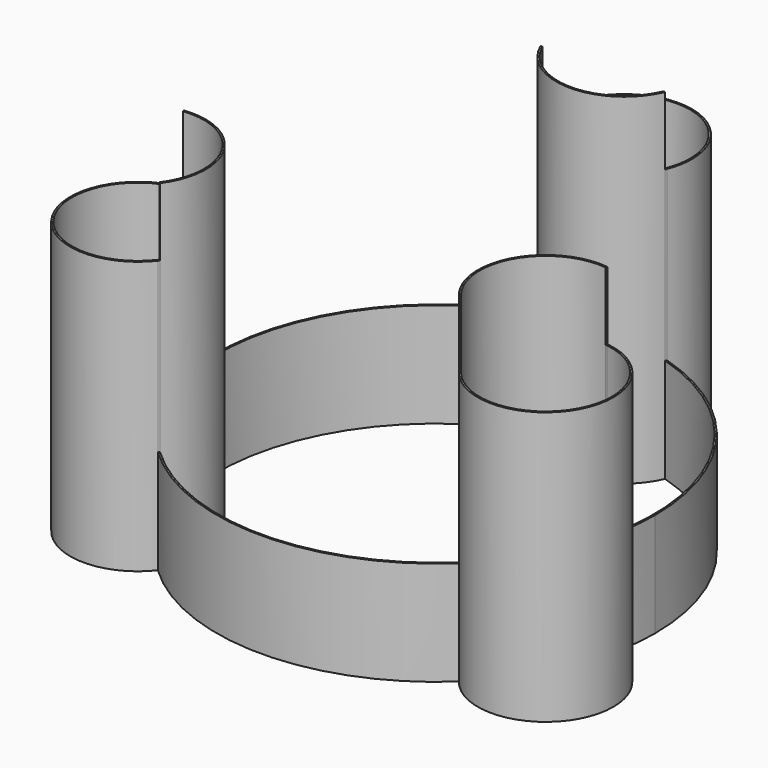
from build123d import *

# Parameters (mm, degrees)
F5_DEPTH = 38.196601125
F6_DEPTH = 100
F8_DEPTH = 25


with BuildPart() as f5:
    # F4 (on Top) → F5 (new body)
    with BuildSketch(Plane.XY):
        with BuildLine():
            ThreePointArc((55.2405756929, -58.5553481513), (55.4659681323, -58.3418921457), (55.6905357594, -58.1275685611))
            ThreePointArc((55.6905357594, -58.1275685611), (55.5005343284, -57.8813176256), (55.3137058467, -57.6326508095))
            ThreePointArc((55.3137058467, -57.6326508095), (55.0886829293, -57.8477787555), (54.8628233356, -58.0620281206))
            ThreePointArc((54.8628233356, -58.0620281206), (55.0501592129, -58.3098675984), (55.2405756929, -58.5553481513))
        make_face()
        with BuildLine():
            ThreePointArc((-55.2405756929, -58.5553481513), (0, -80.5), (55.2405756929, -58.5553481513))
            ThreePointArc((55.2405756929, -58.5553481513), (55.0501592129, -58.3098675984), (54.8628233356, -58.0620281206))
            ThreePointArc((54.8628233356, -58.0620281206), (0, -79.8819660113), (-54.8628233356, -58.0620281206))
            ThreePointArc((-54.8628233356, -58.0620281206), (-55.0501592129, -58.3098675984), (-55.2405756929, -58.5553481513))
        make_face()
        with BuildLine():
            ThreePointArc((-55.6905357594, -58.1275685611), (-55.4659681323, -58.3418921457), (-55.2405756929, -58.5553481513))
            ThreePointArc((-55.2405756929, -58.5553481513), (-55.0501592129, -58.3098675984), (-54.8628233356, -58.0620281206))
            ThreePointArc((-54.8628233356, -58.0620281206), (-55.0886829293, -57.8477787555), (-55.3137058467, -57.6326508095))
            ThreePointArc((-55.3137058467, -57.6326508095), (-55.5005343284, -57.8813176256), (-55.6905357594, -58.1275685611))
        make_face()
        with BuildLine():
            ThreePointArc((-77.7146030154, -18.4815846716), (-69.17981187, 39.9409830056), (-22.8517796799, 76.5436127922))
            ThreePointArc((-22.8517796799, 76.5436127922), (-22.9727470251, 76.8297701599), (-23.09013118, 77.1174159454))
            ThreePointArc((-23.09013118, 77.1174159454), (-69.7150450046, 40.25), (-78.3307068729, -18.5620677941))
            ThreePointArc((-78.3307068729, -18.5620677941), (-78.022906238, -18.5199025615), (-77.7146030154, -18.4815846716))
        make_face()
        with BuildLine():
            ThreePointArc((-77.5681926118, -19.0867490359), (-77.6419874194, -18.7843095), (-77.7146030154, -18.4815846716))
            ThreePointArc((-77.7146030154, -18.4815846716), (-78.022906238, -18.5199025615), (-78.3307068729, -18.5620677941))
            ThreePointArc((-78.3307068729, -18.5620677941), (-78.2585447692, -18.8639913752), (-78.1852189139, -19.1656344374))
            ThreePointArc((-78.1852189139, -19.1656344374), (-77.8769586325, -19.1242138392), (-77.5681926118, -19.0867490359))
        make_face()
        with BuildLine():
            ThreePointArc((-22.2544867651, 76.7193998454), (-22.3764243041, 77.0055314648), (-22.4946831545, 77.2932029986))
            ThreePointArc((-22.4946831545, 77.2932029986), (-22.7925766369, 77.205883521), (-23.09013118, 77.1174159454))
            ThreePointArc((-23.09013118, 77.1174159454), (-22.9727470251, 76.8297701599), (-22.8517796799, 76.5436127922))
            ThreePointArc((-22.8517796799, 76.5436127922), (-22.5533044901, 76.6320882555), (-22.2544867651, 76.7193998454))
        make_face()
        with BuildLine():
            ThreePointArc((22.8517796799, 76.5436127922), (22.9727470251, 76.8297701599), (23.09013118, 77.1174159454))
            ThreePointArc((23.09013118, 77.1174159454), (22.7925766369, 77.205883521), (22.4946831545, 77.2932029986))
            ThreePointArc((22.4946831545, 77.2932029986), (22.3764243041, 77.0055314648), (22.2544867651, 76.7193998454))
            ThreePointArc((22.2544867651, 76.7193998454), (22.5533044901, 76.6320882555), (22.8517796799, 76.5436127922))
        make_face()
        with BuildLine():
            ThreePointArc((78.3307068729, -18.5620677941), (79.9558375082, -9.3441986476), (80.5, 0))
            ThreePointArc((80.5, 0), (64.5716871391, 48.0702321609), (23.09013118, 77.1174159454))
            ThreePointArc((23.09013118, 77.1174159454), (22.9727470251, 76.8297701599), (22.8517796799, 76.5436127922))
            ThreePointArc((22.8517796799, 76.5436127922), (64.0569027565, 47.7267399166), (79.8819660113, 0))
            ThreePointArc((79.8819660113, 0), (79.3382750332, -9.3041178294), (77.7146030154, -18.4815846716))
            ThreePointArc((77.7146030154, -18.4815846716), (78.022906238, -18.5199025615), (78.3307068729, -18.5620677941))
        make_face()
        with BuildLine():
            ThreePointArc((78.1852189139, -19.1656344374), (78.2585447692, -18.8639913752), (78.3307068729, -18.5620677941))
            ThreePointArc((78.3307068729, -18.5620677941), (78.022906238, -18.5199025615), (77.7146030154, -18.4815846716))
            ThreePointArc((77.7146030154, -18.4815846716), (77.6419874194, -18.7843095), (77.5681926118, -19.0867490359))
            ThreePointArc((77.5681926118, -19.0867490359), (77.8769586325, -19.1242138392), (78.1852189139, -19.1656344374))
        make_face()
        with BuildLine():
            ThreePointArc((99.6765570463, -43.1861979292), (93.5972454648, -26.8920800907), (78.3307068729, -18.5620677941))
            ThreePointArc((78.3307068729, -18.5620677941), (78.2585447692, -18.8639913752), (78.1852189139, -19.1656344374))
            ThreePointArc((78.1852189139, -19.1656344374), (93.1111215206, -27.2748631617), (99.0585230576, -43.1861979292))
            ThreePointArc((99.0585230576, -43.1861979292), (82.7023213332, -66.1210343067), (55.6905357594, -58.1275685611))
            ThreePointArc((55.6905357594, -58.1275685611), (55.4659681323, -58.3418921457), (55.2405756929, -58.5553481513))
            ThreePointArc((55.2405756929, -58.5553481513), (82.9319254828, -66.6955961424), (99.6765570463, -43.1861979292))
        make_face()
        with BuildLine():
            ThreePointArc((77.5681926118, -19.0867490359), (77.6419874194, -18.7843095), (77.7146030154, -18.4815846716))
            ThreePointArc((77.7146030154, -18.4815846716), (53.2575553291, -30.7482639056), (54.8628233356, -58.0620281206))
            ThreePointArc((54.8628233356, -58.0620281206), (55.0886829293, -57.8477787555), (55.3137058467, -57.6326508095))
            ThreePointArc((55.3137058467, -57.6326508095), (53.7927884638, -31.0572809), (77.5681926118, -19.0867490359))
        make_face()
        with BuildLine():
            ThreePointArc((-22.8517796799, 76.5436127922), (0, 61.4965278113), (22.8517796799, 76.5436127922))
            ThreePointArc((22.8517796799, 76.5436127922), (22.5533044901, 76.6320882555), (22.2544867651, 76.7193998454))
            ThreePointArc((22.2544867651, 76.7193998454), (0, 62.1145618), (-22.2544867651, 76.7193998454))
            ThreePointArc((-22.2544867651, 76.7193998454), (-22.5533044901, 76.6320882555), (-22.8517796799, 76.5436127922))
        make_face()
        with BuildLine():
            ThreePointArc((22.4946831545, 77.2932029986), (22.7925766369, 77.205883521), (23.09013118, 77.1174159454))
            ThreePointArc((23.09013118, 77.1174159454), (24.4253543222, 81.6595541109), (24.8758680472, 86.3723958584))
            ThreePointArc((24.8758680472, 86.3723958584), (-4.7128417476, 110.7977501806), (-23.09013118, 77.1174159454))
            ThreePointArc((-23.09013118, 77.1174159454), (-22.7925766369, 77.205883521), (-22.4946831545, 77.2932029986))
            ThreePointArc((-22.4946831545, 77.2932029986), (-4.6244038561, 110.1853629601), (24.2578340584, 86.3723958584))
            ThreePointArc((24.2578340584, 86.3723958584), (23.8129671016, 81.7479920024), (22.4946831545, 77.2932029986))
        make_face()
        with BuildLine():
            ThreePointArc((-78.1852189139, -19.1656344374), (-78.2585447692, -18.8639913752), (-78.3307068729, -18.5620677941))
            ThreePointArc((-78.3307068729, -18.5620677941), (-96.3438226692, -55.6241319528), (-55.2405756929, -58.5553481513))
            ThreePointArc((-55.2405756929, -58.5553481513), (-55.4659681323, -58.3418921457), (-55.6905357594, -58.1275685611))
            ThreePointArc((-55.6905357594, -58.1275685611), (-95.8085895345, -55.3151149584), (-78.1852189139, -19.1656344374))
        make_face()
        with BuildLine():
            ThreePointArc((-49.924820952, -43.1861979292), (-58.2730958512, -24.5946010146), (-77.7146030154, -18.4815846716))
            ThreePointArc((-77.7146030154, -18.4815846716), (-77.6419874194, -18.7843095), (-77.5681926118, -19.0867490359))
            ThreePointArc((-77.5681926118, -19.0867490359), (-58.6558930913, -25.0812793075), (-50.5428549407, -43.1861979292))
            ThreePointArc((-50.5428549407, -43.1861979292), (-51.7664262931, -50.7931194351), (-55.3137058467, -57.6326508095))
            ThreePointArc((-55.3137058467, -57.6326508095), (-55.0886829293, -57.8477787555), (-54.8628233356, -58.0620281206))
            ThreePointArc((-54.8628233356, -58.0620281206), (-51.1915750123, -51.0231965802), (-49.924820952, -43.1861979292))
        make_face()
    extrude(amount=F5_DEPTH)

    # F4 (on Top) → F6 (join)
    with BuildSketch(Plane.XY):
        with BuildLine():
            ThreePointArc((-49.924820952, -43.1861979292), (-58.2730958512, -24.5946010146), (-77.7146030154, -18.4815846716))
            ThreePointArc((-77.7146030154, -18.4815846716), (-77.6419874194, -18.7843095), (-77.5681926118, -19.0867490359))
            ThreePointArc((-77.5681926118, -19.0867490359), (-58.6558930913, -25.0812793075), (-50.5428549407, -43.1861979292))
            ThreePointArc((-50.5428549407, -43.1861979292), (-51.7664262931, -50.7931194351), (-55.3137058467, -57.6326508095))
            ThreePointArc((-55.3137058467, -57.6326508095), (-55.0886829293, -57.8477787555), (-54.8628233356, -58.0620281206))
            ThreePointArc((-54.8628233356, -58.0620281206), (-51.1915750123, -51.0231965802), (-49.924820952, -43.1861979292))
        make_face()
        with BuildLine():
            ThreePointArc((77.5681926118, -19.0867490359), (77.6419874194, -18.7843095), (77.7146030154, -18.4815846716))
            ThreePointArc((77.7146030154, -18.4815846716), (53.2575553291, -30.7482639056), (54.8628233356, -58.0620281206))
            ThreePointArc((54.8628233356, -58.0620281206), (55.0886829293, -57.8477787555), (55.3137058467, -57.6326508095))
            ThreePointArc((55.3137058467, -57.6326508095), (53.7927884638, -31.0572809), (77.5681926118, -19.0867490359))
        make_face()
        with BuildLine():
            ThreePointArc((55.2405756929, -58.5553481513), (55.4659681323, -58.3418921457), (55.6905357594, -58.1275685611))
            ThreePointArc((55.6905357594, -58.1275685611), (55.5005343284, -57.8813176256), (55.3137058467, -57.6326508095))
            ThreePointArc((55.3137058467, -57.6326508095), (55.0886829293, -57.8477787555), (54.8628233356, -58.0620281206))
            ThreePointArc((54.8628233356, -58.0620281206), (55.0501592129, -58.3098675984), (55.2405756929, -58.5553481513))
        make_face()
        with BuildLine():
            ThreePointArc((78.1852189139, -19.1656344374), (78.2585447692, -18.8639913752), (78.3307068729, -18.5620677941))
            ThreePointArc((78.3307068729, -18.5620677941), (78.022906238, -18.5199025615), (77.7146030154, -18.4815846716))
            ThreePointArc((77.7146030154, -18.4815846716), (77.6419874194, -18.7843095), (77.5681926118, -19.0867490359))
            ThreePointArc((77.5681926118, -19.0867490359), (77.8769586325, -19.1242138392), (78.1852189139, -19.1656344374))
        make_face()
        with BuildLine():
            ThreePointArc((-77.5681926118, -19.0867490359), (-77.6419874194, -18.7843095), (-77.7146030154, -18.4815846716))
            ThreePointArc((-77.7146030154, -18.4815846716), (-78.022906238, -18.5199025615), (-78.3307068729, -18.5620677941))
            ThreePointArc((-78.3307068729, -18.5620677941), (-78.2585447692, -18.8639913752), (-78.1852189139, -19.1656344374))
            ThreePointArc((-78.1852189139, -19.1656344374), (-77.8769586325, -19.1242138392), (-77.5681926118, -19.0867490359))
        make_face()
        with BuildLine():
            ThreePointArc((-55.6905357594, -58.1275685611), (-55.4659681323, -58.3418921457), (-55.2405756929, -58.5553481513))
            ThreePointArc((-55.2405756929, -58.5553481513), (-55.0501592129, -58.3098675984), (-54.8628233356, -58.0620281206))
            ThreePointArc((-54.8628233356, -58.0620281206), (-55.0886829293, -57.8477787555), (-55.3137058467, -57.6326508095))
            ThreePointArc((-55.3137058467, -57.6326508095), (-55.5005343284, -57.8813176256), (-55.6905357594, -58.1275685611))
        make_face()
        with BuildLine():
            ThreePointArc((-22.2544867651, 76.7193998454), (-22.3764243041, 77.0055314648), (-22.4946831545, 77.2932029986))
            ThreePointArc((-22.4946831545, 77.2932029986), (-22.7925766369, 77.205883521), (-23.09013118, 77.1174159454))
            ThreePointArc((-23.09013118, 77.1174159454), (-22.9727470251, 76.8297701599), (-22.8517796799, 76.5436127922))
            ThreePointArc((-22.8517796799, 76.5436127922), (-22.5533044901, 76.6320882555), (-22.2544867651, 76.7193998454))
        make_face()
        with BuildLine():
            ThreePointArc((-22.8517796799, 76.5436127922), (0, 61.4965278113), (22.8517796799, 76.5436127922))
            ThreePointArc((22.8517796799, 76.5436127922), (22.5533044901, 76.6320882555), (22.2544867651, 76.7193998454))
            ThreePointArc((22.2544867651, 76.7193998454), (0, 62.1145618), (-22.2544867651, 76.7193998454))
            ThreePointArc((-22.2544867651, 76.7193998454), (-22.5533044901, 76.6320882555), (-22.8517796799, 76.5436127922))
        make_face()
        with BuildLine():
            ThreePointArc((22.8517796799, 76.5436127922), (22.9727470251, 76.8297701599), (23.09013118, 77.1174159454))
            ThreePointArc((23.09013118, 77.1174159454), (22.7925766369, 77.205883521), (22.4946831545, 77.2932029986))
            ThreePointArc((22.4946831545, 77.2932029986), (22.3764243041, 77.0055314648), (22.2544867651, 76.7193998454))
            ThreePointArc((22.2544867651, 76.7193998454), (22.5533044901, 76.6320882555), (22.8517796799, 76.5436127922))
        make_face()
        with BuildLine():
            ThreePointArc((22.4946831545, 77.2932029986), (22.7925766369, 77.205883521), (23.09013118, 77.1174159454))
            ThreePointArc((23.09013118, 77.1174159454), (24.4253543222, 81.6595541109), (24.8758680472, 86.3723958584))
            ThreePointArc((24.8758680472, 86.3723958584), (-4.7128417476, 110.7977501806), (-23.09013118, 77.1174159454))
            ThreePointArc((-23.09013118, 77.1174159454), (-22.7925766369, 77.205883521), (-22.4946831545, 77.2932029986))
            ThreePointArc((-22.4946831545, 77.2932029986), (-4.6244038561, 110.1853629601), (24.2578340584, 86.3723958584))
            ThreePointArc((24.2578340584, 86.3723958584), (23.8129671016, 81.7479920024), (22.4946831545, 77.2932029986))
        make_face()
        with BuildLine():
            ThreePointArc((-78.1852189139, -19.1656344374), (-78.2585447692, -18.8639913752), (-78.3307068729, -18.5620677941))
            ThreePointArc((-78.3307068729, -18.5620677941), (-96.3438226692, -55.6241319528), (-55.2405756929, -58.5553481513))
            ThreePointArc((-55.2405756929, -58.5553481513), (-55.4659681323, -58.3418921457), (-55.6905357594, -58.1275685611))
            ThreePointArc((-55.6905357594, -58.1275685611), (-95.8085895345, -55.3151149584), (-78.1852189139, -19.1656344374))
        make_face()
        with BuildLine():
            ThreePointArc((99.6765570463, -43.1861979292), (93.5972454648, -26.8920800907), (78.3307068729, -18.5620677941))
            ThreePointArc((78.3307068729, -18.5620677941), (78.2585447692, -18.8639913752), (78.1852189139, -19.1656344374))
            ThreePointArc((78.1852189139, -19.1656344374), (93.1111215206, -27.2748631617), (99.0585230576, -43.1861979292))
            ThreePointArc((99.0585230576, -43.1861979292), (82.7023213332, -66.1210343067), (55.6905357594, -58.1275685611))
            ThreePointArc((55.6905357594, -58.1275685611), (55.4659681323, -58.3418921457), (55.2405756929, -58.5553481513))
            ThreePointArc((55.2405756929, -58.5553481513), (82.9319254828, -66.6955961424), (99.6765570463, -43.1861979292))
        make_face()
    extrude(amount=F6_DEPTH)

    # F7 (on face) → F8 (join)
    with BuildSketch(Plane.XY.offset(100)):
        with BuildLine():
            ThreePointArc((-49.924820952, -43.1861979292), (-58.2730958512, -24.5946010146), (-77.7146030154, -18.4815846716))
            ThreePointArc((-77.7146030154, -18.4815846716), (-77.6419874194, -18.7843095), (-77.5681926118, -19.0867490359))
            ThreePointArc((-77.5681926118, -19.0867490359), (-58.6558930913, -25.0812793075), (-50.5428549407, -43.1861979292))
            ThreePointArc((-50.5428549407, -43.1861979292), (-51.7664262931, -50.7931194351), (-55.3137058467, -57.6326508095))
            ThreePointArc((-55.3137058467, -57.6326508095), (-55.0886829293, -57.8477787555), (-54.8628233356, -58.0620281206))
            ThreePointArc((-54.8628233356, -58.0620281206), (-51.1915750123, -51.0231965802), (-49.924820952, -43.1861979292))
        make_face()
        with BuildLine():
            ThreePointArc((-22.2544867651, 76.7193998454), (-22.5533044901, 76.6320882555), (-22.8517796799, 76.5436127922))
            ThreePointArc((-22.8517796799, 76.5436127922), (0, 61.4965278113), (22.8517796799, 76.5436127922))
            ThreePointArc((22.8517796799, 76.5436127922), (22.5533044901, 76.6320882555), (22.2544867651, 76.7193998454))
            ThreePointArc((22.2544867651, 76.7193998454), (0, 62.1145618), (-22.2544867651, 76.7193998454))
        make_face()
        with BuildLine():
            ThreePointArc((77.5681926118, -19.0867490359), (77.6419874194, -18.7843095), (77.7146030154, -18.4815846716))
            ThreePointArc((77.7146030154, -18.4815846716), (53.2575553291, -30.7482639056), (54.8628233356, -58.0620281206))
            ThreePointArc((54.8628233356, -58.0620281206), (55.0886829293, -57.8477787555), (55.3137058467, -57.6326508095))
            ThreePointArc((55.3137058467, -57.6326508095), (53.7927884638, -31.0572809), (77.5681926118, -19.0867490359))
        make_face()
    extrude(amount=F8_DEPTH)


solid = f5.part
